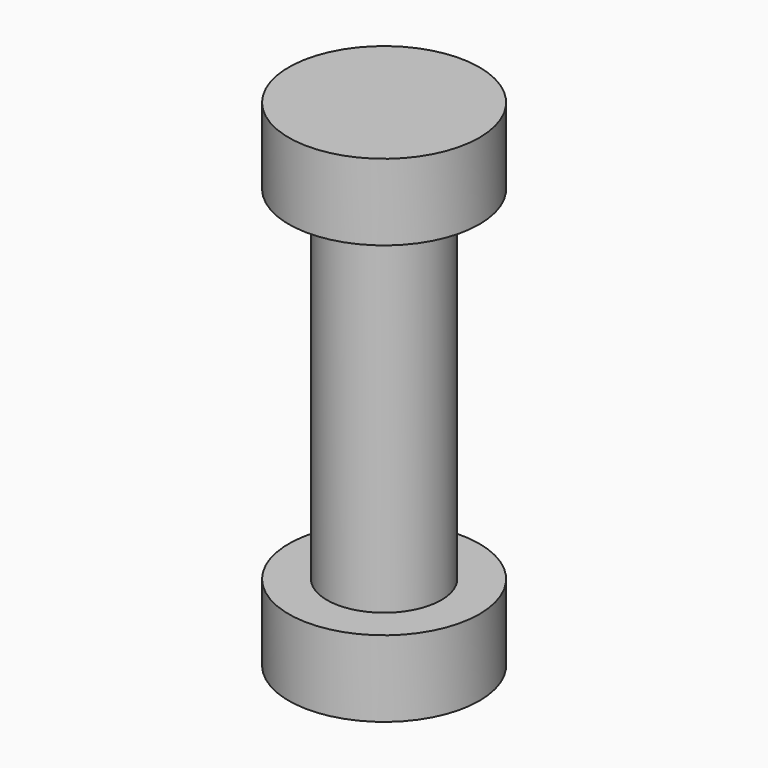
from build123d import *

# Parameters (mm, degrees)
F0_R      = 25
F1_DEPTH  = 20
F2_R      = 15
F3_DEPTH  = 90
F4_R      = 25
F5_DEPTH  = 20
F6_R      = 12.5
F7_DEPTH  = 90
F8_R      = 10
F9_DEPTH  = 90
F10_R     = 9
F11_DEPTH = 90
F12_R     = 9
F13_DEPTH = 90


with BuildPart() as f1:
    # F0 (on Top) → F1 (new body)
    with BuildSketch(Plane.XY):
        Circle(F0_R)
    extrude(amount=F1_DEPTH)

    # F2 (on face) → F3 (join)
    with BuildSketch(Plane.XY.offset(20)):
        Circle(F2_R)
    extrude(amount=F3_DEPTH)

    # F4 (on face) → F5 (join)
    with BuildSketch(Plane.XY.offset(110)):
        Circle(F4_R)
    extrude(amount=F5_DEPTH)

    # F6 (on face) → F7 (cut)
    with BuildSketch(Plane.XY.offset(20)):
        Circle(F6_R)
    extrude(amount=F7_DEPTH, mode=Mode.SUBTRACT)

    # F12 (on face) → F13 (join)
    with BuildSketch(Plane(origin=(0, 0, 20), x_dir=(1, 0, 0), z_dir=(0, 0, -1))):
        Circle(F12_R)
    extrude(amount=-F13_DEPTH)


with BuildPart() as f9:
    # F8 (on face) → F9 (new body)
    with BuildSketch(Plane.XY.offset(20)):
        Circle(F8_R)
    extrude(amount=F9_DEPTH)

    # F10 (on face) → F11 (cut)
    with BuildSketch(Plane.XY.offset(20)):
        Circle(F10_R)
    extrude(amount=F11_DEPTH, mode=Mode.SUBTRACT)


solid = Compound([f1.part, f9.part])
